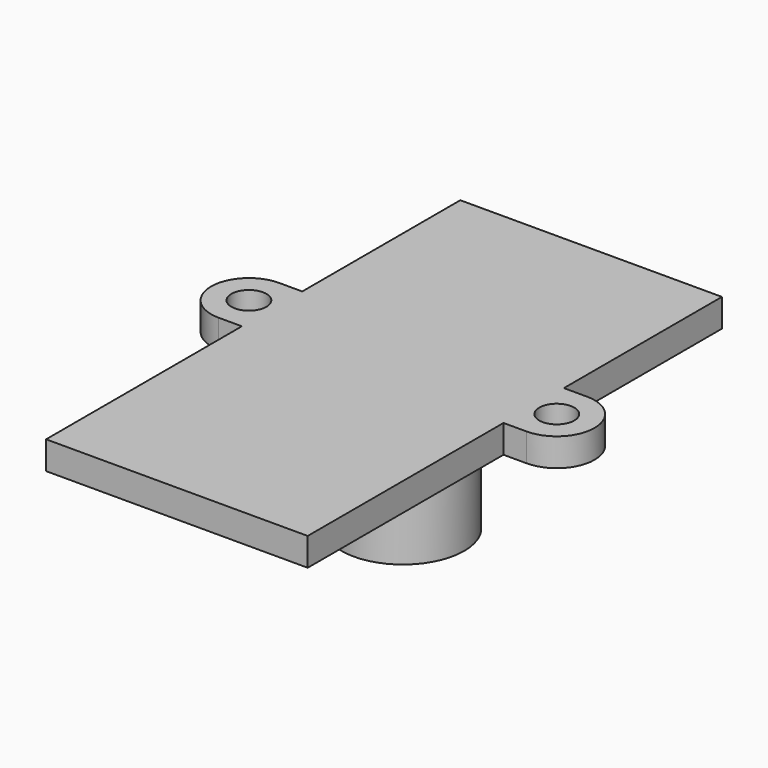
from build123d import *

# Parameters (mm, degrees)
F0_R     = 1
F0_R_2   = 3.5
F1_DEPTH = 1.6
F2_DEPTH = 7


with BuildPart() as f1:
    # F0 (on Top) → F1 (new body)
    with BuildSketch(Plane.XY):
        with BuildLine():
            Line((-8.372574, 24.888162), (-23.307574, 24.888162))
            Line((-23.307574, 24.888162), (-23.307574, 13.610162))
            Line((-23.307574, 13.610162), (-24.627574, 13.610162))
            ThreePointArc((-24.627574, 13.610162), (-26.781574, 11.456162), (-24.627574, 9.302162))
            Line((-24.627574, 9.302162), (-23.307574, 9.302162))
            Line((-23.307574, 9.302162), (-23.307574, -4.667838))
            Line((-23.307574, -4.667838), (-8.372574, -4.667838))
            Line((-8.372574, -4.667838), (-8.372574, 9.302162))
            Line((-8.372574, 9.302162), (-7.052574, 9.302162))
            ThreePointArc((-7.052574, 9.302162), (-4.898574, 11.456162), (-7.052574, 13.610162))
            Line((-7.052574, 13.610162), (-8.372574, 13.610162))
            Line((-8.372574, 13.610162), (-8.372574, 24.888162))
        make_face()
        with Locations((-24.627574, 11.456162)):
            Circle(F0_R, mode=Mode.SUBTRACT)
        with Locations((-15.840074, 11.456162)):
            Circle(F0_R_2, mode=Mode.SUBTRACT)
        with Locations((-7.052574, 11.456162)):
            Circle(F0_R, mode=Mode.SUBTRACT)
        with Locations((-15.840074, 11.456162)):
            Circle(F0_R_2)
    extrude(amount=F1_DEPTH)

    # F0 (on Top) → F2 (join)
    with BuildSketch(Plane.XY):
        with Locations((-15.840074, 11.456162)):
            Circle(F0_R_2)
    extrude(amount=-F2_DEPTH)


solid = f1.part
